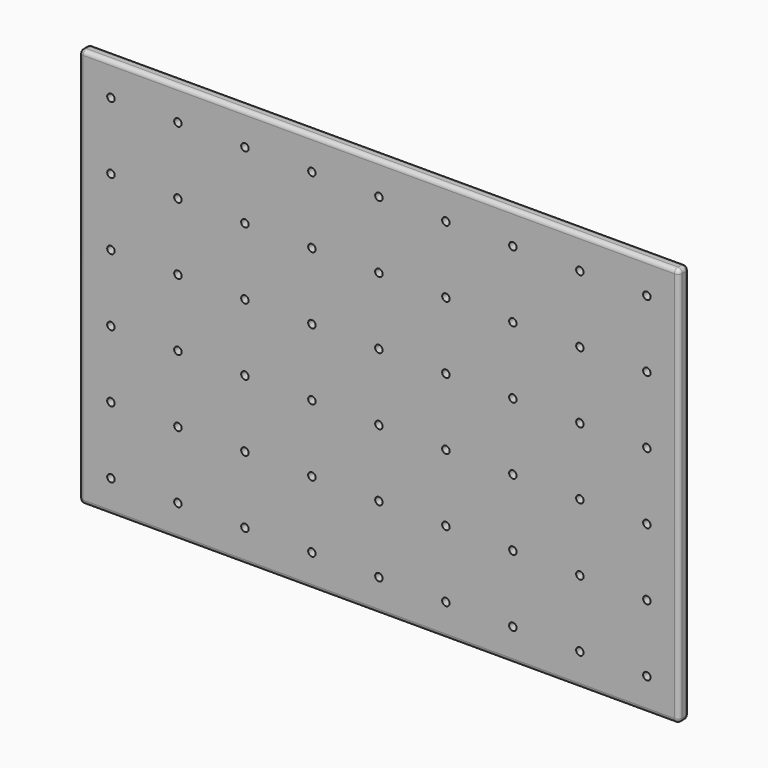
from build123d import *

# Parameters (mm, degrees)
F0_W     = 895.35
F0_H     = 596.9
F0_R     = 5.55625
F1_DEPTH = 9.525
F2_R     = 6.35


with BuildPart() as f1:
    # F0 (on Front) → F1 (new body, symmetric)
    with BuildSketch(Plane.XZ):
        Rectangle(F0_W, F0_H)
        with Locations((-400, -250)):
            Circle(F0_R, mode=Mode.SUBTRACT)
        with Locations((-300, -250)):
            Circle(F0_R, mode=Mode.SUBTRACT)
        with Locations((-400, -150)):
            Circle(F0_R, mode=Mode.SUBTRACT)
        with Locations((-300, -150)):
            Circle(F0_R, mode=Mode.SUBTRACT)
        with Locations((-200, -250)):
            Circle(F0_R, mode=Mode.SUBTRACT)
        with Locations((-100, -250)):
            Circle(F0_R, mode=Mode.SUBTRACT)
        with Locations((-200, -150)):
            Circle(F0_R, mode=Mode.SUBTRACT)
        with Locations((-100, -150)):
            Circle(F0_R, mode=Mode.SUBTRACT)
        with Locations((-400, -50)):
            Circle(F0_R, mode=Mode.SUBTRACT)
        with Locations((-300, -50)):
            Circle(F0_R, mode=Mode.SUBTRACT)
        with Locations((-200, -50)):
            Circle(F0_R, mode=Mode.SUBTRACT)
        with Locations((-100, -50)):
            Circle(F0_R, mode=Mode.SUBTRACT)
        with Locations((0, -250)):
            Circle(F0_R, mode=Mode.SUBTRACT)
        with Locations((100, -250)):
            Circle(F0_R, mode=Mode.SUBTRACT)
        with Locations((200, -250)):
            Circle(F0_R, mode=Mode.SUBTRACT)
        with Locations((0, -150)):
            Circle(F0_R, mode=Mode.SUBTRACT)
        with Locations((100, -150)):
            Circle(F0_R, mode=Mode.SUBTRACT)
        with Locations((200, -150)):
            Circle(F0_R, mode=Mode.SUBTRACT)
        with Locations((300, -250)):
            Circle(F0_R, mode=Mode.SUBTRACT)
        with Locations((400, -250)):
            Circle(F0_R, mode=Mode.SUBTRACT)
        with Locations((300, -150)):
            Circle(F0_R, mode=Mode.SUBTRACT)
        with Locations((400, -150)):
            Circle(F0_R, mode=Mode.SUBTRACT)
        with Locations((0, -50)):
            Circle(F0_R, mode=Mode.SUBTRACT)
        with Locations((100, -50)):
            Circle(F0_R, mode=Mode.SUBTRACT)
        with Locations((200, -50)):
            Circle(F0_R, mode=Mode.SUBTRACT)
        with Locations((300, -50)):
            Circle(F0_R, mode=Mode.SUBTRACT)
        with Locations((400, -50)):
            Circle(F0_R, mode=Mode.SUBTRACT)
        with Locations((-400, 50)):
            Circle(F0_R, mode=Mode.SUBTRACT)
        with Locations((-300, 50)):
            Circle(F0_R, mode=Mode.SUBTRACT)
        with Locations((-200, 50)):
            Circle(F0_R, mode=Mode.SUBTRACT)
        with Locations((-100, 50)):
            Circle(F0_R, mode=Mode.SUBTRACT)
        with Locations((-400, 150)):
            Circle(F0_R, mode=Mode.SUBTRACT)
        with Locations((-300, 150)):
            Circle(F0_R, mode=Mode.SUBTRACT)
        with Locations((-400, 250)):
            Circle(F0_R, mode=Mode.SUBTRACT)
        with Locations((-300, 250)):
            Circle(F0_R, mode=Mode.SUBTRACT)
        with Locations((-200, 150)):
            Circle(F0_R, mode=Mode.SUBTRACT)
        with Locations((-100, 150)):
            Circle(F0_R, mode=Mode.SUBTRACT)
        with Locations((-200, 250)):
            Circle(F0_R, mode=Mode.SUBTRACT)
        with Locations((-100, 250)):
            Circle(F0_R, mode=Mode.SUBTRACT)
        with Locations((0, 50)):
            Circle(F0_R, mode=Mode.SUBTRACT)
        with Locations((100, 50)):
            Circle(F0_R, mode=Mode.SUBTRACT)
        with Locations((200, 50)):
            Circle(F0_R, mode=Mode.SUBTRACT)
        with Locations((300, 50)):
            Circle(F0_R, mode=Mode.SUBTRACT)
        with Locations((400, 50)):
            Circle(F0_R, mode=Mode.SUBTRACT)
        with Locations((0, 150)):
            Circle(F0_R, mode=Mode.SUBTRACT)
        with Locations((100, 150)):
            Circle(F0_R, mode=Mode.SUBTRACT)
        with Locations((200, 150)):
            Circle(F0_R, mode=Mode.SUBTRACT)
        with Locations((0, 250)):
            Circle(F0_R, mode=Mode.SUBTRACT)
        with Locations((100, 250)):
            Circle(F0_R, mode=Mode.SUBTRACT)
        with Locations((200, 250)):
            Circle(F0_R, mode=Mode.SUBTRACT)
        with Locations((300, 150)):
            Circle(F0_R, mode=Mode.SUBTRACT)
        with Locations((400, 150)):
            Circle(F0_R, mode=Mode.SUBTRACT)
        with Locations((300, 250)):
            Circle(F0_R, mode=Mode.SUBTRACT)
        with Locations((400, 250)):
            Circle(F0_R, mode=Mode.SUBTRACT)
    extrude(amount=F1_DEPTH, both=True)

    # F2
    f2_edges = [f1.edges().sort_by_distance(p)[0] for p in [
        (-447.675, 0, 298.45),
        (0, 9.525, 298.45),
        (-447.675, 9.525, 0),
        (-447.675, -9.525, 0),
        (447.675, 0, 298.45),
        (0, -9.525, 298.45),
        (447.675, -9.525, 0),
        (0, -9.525, -298.45),
        (-447.675, 0, -298.45),
        (0, 9.525, -298.45),
        (447.675, 0, -298.45),
        (447.675, 9.525, 0),
    ]]
    fillet(f2_edges, radius=F2_R)


solid = f1.part
